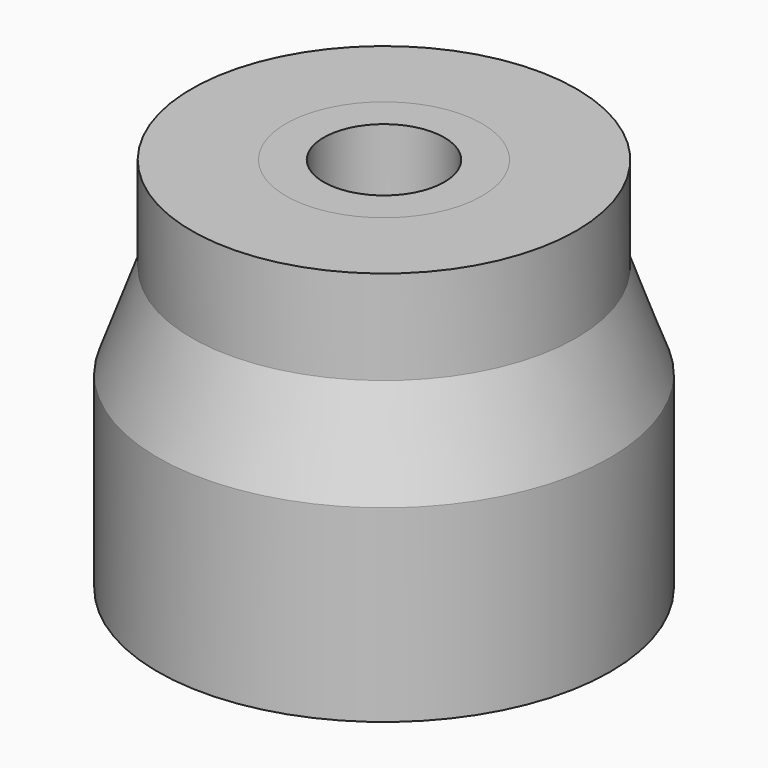
from build123d import *

# Parameters (mm, degrees)
SKETCH_R      = 5.1
SKETCH_R_2    = 1.6
PAD_DEPTH     = 5
SKETCH001_R   = 6
PAD001_DEPTH  = 5
SKETCH003_R   = 5.1
SKETCH003_R_2 = 2.6
PAD002_DEPTH  = 5
SKETCH004_R   = 6
PAD003_DEPTH  = 5


with BuildPart() as body:
    # Sketch → Pad (new body)
    with BuildSketch(Plane.XY):
        Circle(SKETCH_R)
        Circle(SKETCH_R_2, mode=Mode.SUBTRACT)
    extrude(amount=PAD_DEPTH)

    # Sketch001 → Pad001 (join)
    with BuildSketch(Plane.XY):
        Circle(SKETCH001_R)
        Polygon((2.4825, 4.299816), (-2.4825, 4.299816), (-4.965, 0), (-2.4825, -4.299816), (2.4825, -4.299816), (4.965, 0), align=None, mode=Mode.SUBTRACT)
    extrude(amount=-PAD001_DEPTH)

    # Sketch002 → Revolution (revolve)
    with BuildSketch(Plane.XZ):
        Polygon((6, 0), (5.1, 2.5), (5.1, 0), align=None)
    revolve(axis=Axis((0, 0, 0), (0, 0, 1)))


with BuildPart() as body001:
    # Sketch003 → Pad002 (new body)
    with BuildSketch(Plane.XY):
        Circle(SKETCH003_R)
        Circle(SKETCH003_R_2, mode=Mode.SUBTRACT)
    extrude(amount=PAD002_DEPTH)

    # Sketch004 → Pad003 (join)
    with BuildSketch(Plane.XY):
        Circle(SKETCH004_R)
        Polygon((2.4825, 4.299816), (-2.4825, 4.299816), (-4.965, 0), (-2.4825, -4.299816), (2.4825, -4.299816), (4.965, 0), align=None, mode=Mode.SUBTRACT)
    extrude(amount=-PAD003_DEPTH)

    # Sketch005 → Revolution001 (revolve)
    with BuildSketch(Plane.XZ):
        Polygon((6, 0), (5.1, 2.5), (5.1, 0), align=None)
    revolve(axis=Axis((0, 0, 0), (0, 0, 1)))


solid = Compound([body.part, body001.part])
